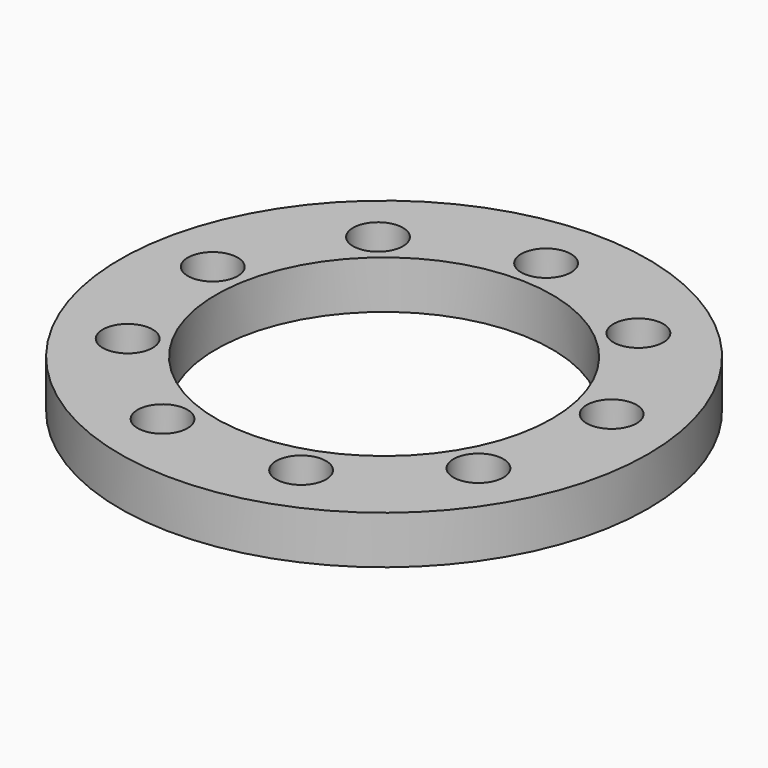
from build123d import *

# Parameters (mm, degrees)
F0_R     = 27.5
F0_R_2   = 2.6
F0_R_3   = 17.5
F1_DEPTH = 5


with BuildPart() as f1:
    # F0 (on Top) → F1 (new body)
    with BuildSketch(Plane.XY):
        Circle(F0_R)
        with Locations((-7.216625, -19.827514)):
            Circle(F0_R_2, mode=Mode.SUBTRACT)
        with Locations((-18.273136, -10.55)):
            Circle(F0_R_2, mode=Mode.SUBTRACT)
        with Locations((7.216625, -19.827514)):
            Circle(F0_R_2, mode=Mode.SUBTRACT)
        with Locations((18.273136, -10.55)):
            Circle(F0_R_2, mode=Mode.SUBTRACT)
        with Locations((-20.779444, 3.663977)):
            Circle(F0_R_2, mode=Mode.SUBTRACT)
        with Locations((-13.562819, 16.163538)):
            Circle(F0_R_2, mode=Mode.SUBTRACT)
        Circle(F0_R_3, mode=Mode.SUBTRACT)
        with Locations((20.779444, 3.663977)):
            Circle(F0_R_2, mode=Mode.SUBTRACT)
        with Locations((13.562819, 16.163538)):
            Circle(F0_R_2, mode=Mode.SUBTRACT)
        with Locations((0, 21.1)):
            Circle(F0_R_2, mode=Mode.SUBTRACT)
    extrude(amount=F1_DEPTH)


solid = f1.part
